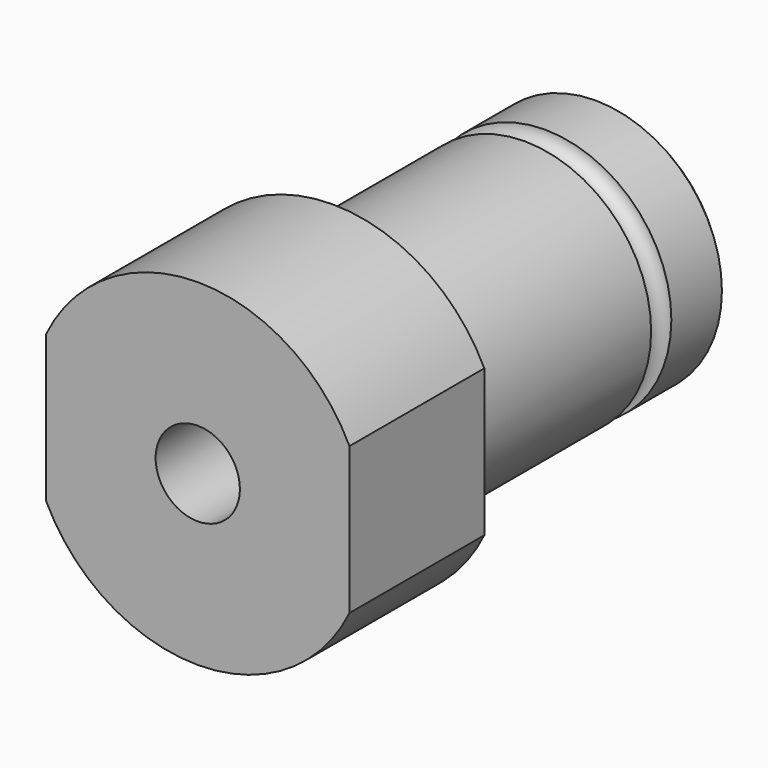
from build123d import *

# Parameters (mm, degrees)
F1_DEPTH = 20
F4_R     = 5
F5_DEPTH = 60.001


with BuildPart() as f1:
    # F0 (on Front) → F1 (new body)
    with BuildSketch(Plane.XZ):
        with BuildLine():
            Line((18, 0), (18, 8.7177978871))
            ThreePointArc((18, 8.7177978871), (0, 20), (-18, 8.7177978871))
            Line((-18, 8.7177978871), (-18, 0))
            Line((-18, 0), (0, 0))
            Line((0, 0), (18, 0))
        make_face()
        with BuildLine():
            ThreePointArc((-18, -8.7177978871), (0, -20), (18, -8.7177978871))
            Line((18, -8.7177978871), (18, 0))
            Line((18, 0), (0, 0))
            Line((0, 0), (-18, 0))
            Line((-18, 0), (-18, -8.7177978871))
        make_face()
    extrude(amount=F1_DEPTH)

    # F2 (on Right) → F3 (revolve)
    with BuildSketch(Plane.YZ):
        with BuildLine():
            Line((0, 15), (0, 0))
            Line((0, 0), (40, 0))
            Line((40, 0), (40, 14))
            Line((40, 14), (39, 15))
            Line((39, 15), (31.5, 15))
            ThreePointArc((31.5, 15), (30, 13.5), (28.5, 15))
            Line((28.5, 15), (0, 15))
        make_face()
    revolve(axis=Axis((0, 20, 0), (0, -1, 0)))

    # F4 (on face) → F5 (cut, through all)
    with BuildSketch(Plane.XZ.offset(20)):
        Circle(F4_R)
    extrude(amount=-F5_DEPTH, mode=Mode.SUBTRACT)


solid = f1.part
